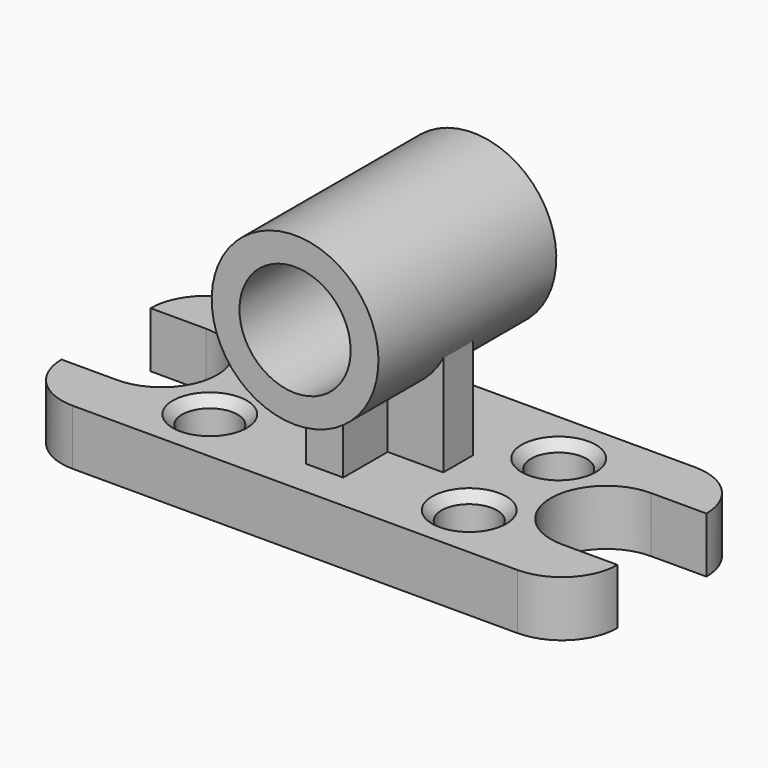
from build123d import *

# Parameters (mm, degrees)
F0_R     = 38.1
F1_DEPTH = 76.2
F3_DEPTH = 175.006
F5_DEPTH = 304.8
F6_DEPTH = 430.022
F7_DEPTH = 172.72
F8_SIZE  = 12.7


with BuildPart() as f1:
    # F0 (on Top) → F1 (new body)
    with BuildSketch(Plane.XY):
        with BuildLine():
            Line((304.8000000003, 0), (-304.8000000003, 0))
            ThreePointArc((-304.8000000003, 0), (-358.6815367265, -22.3184632735), (-381, -76.1999999997))
            Line((-381, -76.1999999997), (-304.8000000003, -76.1999999997))
            ThreePointArc((-304.8000000003, -76.1999999997), (-228.6, -152.4), (-304.8000000003, -228.6000000003))
            Line((-304.8000000003, -228.6000000003), (-381, -228.6000000003))
            ThreePointArc((-381, -228.6000000003), (-358.6815367265, -282.4815367265), (-304.8000000003, -304.8))
            Line((-304.8000000003, -304.8), (304.8000000003, -304.8))
            ThreePointArc((304.8000000003, -304.8), (358.6815367267, -282.4815367264), (381.0000000003, -228.6))
            Line((381, -228.6000000003), (304.8000000003, -228.6000000003))
            ThreePointArc((304.8000000003, -228.6000000003), (228.6, -152.4), (304.8000000003, -76.1999999997))
            Line((304.8000000003, -76.1999999997), (381, -76.1999999997))
            ThreePointArc((381.0000000005, -76.2000000003), (358.6815367269, -22.3184632737), (304.8000000003, 0))
        make_face()
        with Locations((-177.8, -228.6)):
            Circle(F0_R, mode=Mode.SUBTRACT)
        with Locations((177.8, -228.6)):
            Circle(F0_R, mode=Mode.SUBTRACT)
        Polygon((-25.4, -114.8846255064), (-25.4, -48.2938652754), (25.4, -48.2938652754), (25.4, -114.8846255064), (101.6, -114.8846255064), (101.6, -165.6846255064), (25.4, -165.6846255064), (25.4, -241.8846255064), (-25.4, -241.8846255064), (-25.4, -165.6846255064), (-101.6, -165.6846255064), (-101.6, -114.8846255064), align=None, mode=Mode.SUBTRACT)
        with Locations((-177.7999999997, -76.2)):
            Circle(F0_R, mode=Mode.SUBTRACT)
        with Locations((177.8, -75.2889811993)):
            Circle(F0_R, mode=Mode.SUBTRACT)
        with Locations((-177.7999999997, -76.2)):
            Circle(F0_R)
        Polygon((25.4, -48.2938652754), (-25.4, -48.2938652754), (-25.4, -114.8846255064), (-101.6, -114.8846255064), (-101.6, -165.6846255064), (-25.4, -165.6846255064), (-25.4, -241.8846255064), (25.4, -241.8846255064), (25.4, -165.6846255064), (101.6, -165.6846255064), (101.6, -114.8846255064), (25.4, -114.8846255064), align=None)
        with Locations((177.8, -75.2889811993)):
            Circle(F0_R)
        with Locations((177.8, -228.6)):
            Circle(F0_R)
        with Locations((-177.8, -228.6)):
            Circle(F0_R)
    extrude(amount=-F1_DEPTH)

    # F2 (on Top) → F3 (join)
    with BuildSketch(Plane.XY):
        Polygon((25.4, -50.8), (-25.4, -50.8), (-25.4, -127), (-101.6, -127), (-101.6, -177.8), (-25.4, -177.8), (-25.4, -254), (25.4, -254), (25.4, -177.8), (101.6, -177.8), (101.6, -127), (25.4, -127), align=None)
    extrude(amount=F3_DEPTH)

    # F4 (on Front) → F5 (join)
    with BuildSketch(Plane.XZ):
        with BuildLine():
            ThreePointArc((114.3, 190.5), (-80.8223050896, 271.3223050896), (0, 76.2))
            ThreePointArc((0, 76.2), (80.8223050896, 109.6776949104), (114.3, 190.5))
        make_face()
        with BuildLine():
            ThreePointArc((76.2, 190.5), (53.8815367264, 136.6184632736), (0, 114.3))
            ThreePointArc((0, 114.3), (-53.8815367264, 244.3815367264), (76.2, 190.5))
        make_face(mode=Mode.SUBTRACT)
        with BuildLine():
            ThreePointArc((76.2, 190.5), (-53.8815367264, 244.3815367264), (0, 114.3))
            ThreePointArc((0, 114.3), (53.8815367264, 136.6184632736), (76.2, 190.5))
        make_face()
    extrude(amount=F5_DEPTH)

    # F4 (on Front) → F6 (cut)
    with BuildSketch(Plane.XZ):
        with BuildLine():
            ThreePointArc((76.2, 190.5), (-53.8815367264, 244.3815367264), (0, 114.3))
            ThreePointArc((0, 114.3), (53.8815367264, 136.6184632736), (76.2, 190.5))
        make_face()
    extrude(amount=F6_DEPTH, mode=Mode.SUBTRACT)

    # F0 (on Top) → F7 (cut)
    with BuildSketch(Plane.XY):
        with Locations((-177.7999999997, -76.2)):
            Circle(F0_R)
        with Locations((-177.8, -228.6)):
            Circle(F0_R)
        with Locations((177.8, -75.2889811993)):
            Circle(F0_R)
        with Locations((177.8, -228.6)):
            Circle(F0_R)
    extrude(amount=-F7_DEPTH, mode=Mode.SUBTRACT)

    # F8
    f8_edges = [f1.edges().sort_by_distance(p)[0] for p in [
        (139.7, -75.288981, 0),
        (139.7, -228.6, 0),
        (215.9, -228.6, -38.1),
        (139.7, -228.6, -76.2),
        (-215.9, -228.6, 0),
        (-139.7, -228.6, -38.1),
        (-215.9, -228.6, -76.2),
        (-215.9, -76.2, 0),
        (-139.7, -76.2, -38.1),
        (-215.9, -76.2, -76.2),
    ]]
    chamfer(f8_edges, length=F8_SIZE)


solid = f1.part
